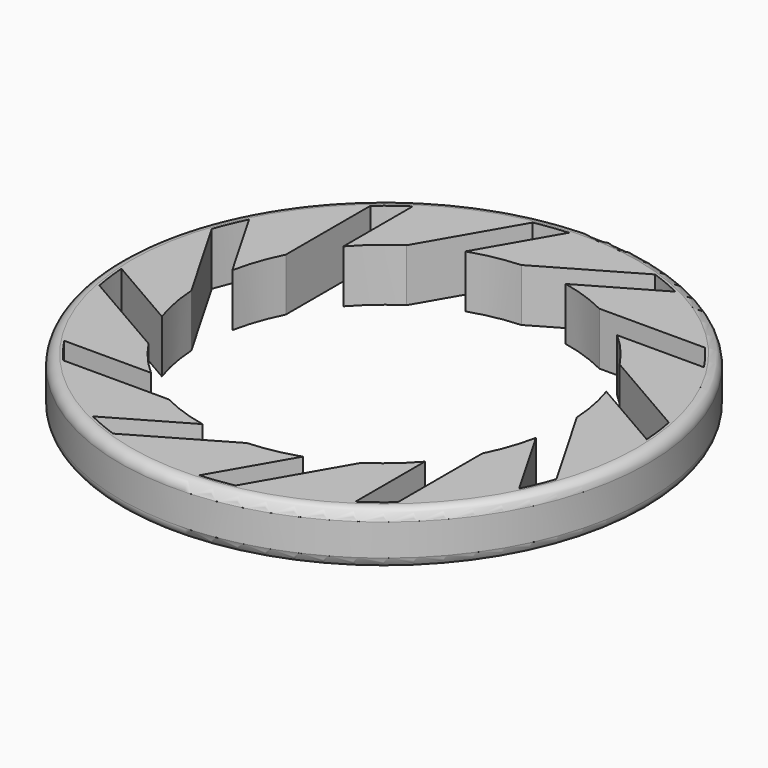
from build123d import *

# Parameters (mm, degrees)
F0_R     = 127
F1_DEPTH = 25.4
F2_R     = 5.08


with BuildPart() as f1:
    # F0 (on Top) → F1 (new body)
    with BuildSketch(Plane.XY):
        Circle(F0_R)
        with BuildLine():
            ThreePointArc((120.420623, 7.436133), (120.592642, 3.719835), (120.65, 0))
            ThreePointArc((120.65, 0), (119.016813, -19.784353), (114.161469, -39.033082))
            ThreePointArc((114.161469, -39.033082), (111.327558, -46.503735), (108.005385, -53.770431))
            ThreePointArc((108.005385, -53.770431), (95.498111, -73.732851), (79.350191, -90.884375))
            ThreePointArc((79.350191, -90.884375), (73.160626, -95.937195), (66.650191, -100.569252))
            ThreePointArc((66.650191, -100.569252), (45.837365, -111.603577), (23.277094, -118.383273))
            ThreePointArc((23.277094, -118.383273), (15.390363, -119.664361), (7.436133, -120.420623))
            ThreePointArc((7.436133, -120.420623), (-16.105466, -119.570216), (-39.033082, -114.161469))
            ThreePointArc((-39.033082, -114.161469), (-46.503735, -111.327558), (-53.770431, -108.005385))
            ThreePointArc((-53.770431, -108.005385), (-73.732851, -95.498111), (-90.884375, -79.350191))
            ThreePointArc((-90.884375, -79.350191), (-95.937195, -73.160626), (-100.569252, -66.650191))
            ThreePointArc((-100.569252, -66.650191), (-111.603577, -45.837365), (-118.383273, -23.277094))
            ThreePointArc((-118.383273, -23.277094), (-119.664361, -15.390363), (-120.420623, -7.436133))
            ThreePointArc((-120.420623, -7.436133), (-119.570216, 16.105466), (-114.161469, 39.033082))
            ThreePointArc((-114.161469, 39.033082), (-111.327558, 46.503735), (-108.005385, 53.770431))
            ThreePointArc((-108.005385, 53.770431), (-95.498111, 73.732851), (-79.350191, 90.884375))
            ThreePointArc((-79.350191, 90.884375), (-73.160626, 95.937195), (-66.650191, 100.569252))
            ThreePointArc((-66.650191, 100.569252), (-45.837365, 111.603577), (-23.277094, 118.383273))
            ThreePointArc((-23.277094, 118.383273), (-15.390363, 119.664361), (-7.436133, 120.420623))
            ThreePointArc((-7.436133, 120.420623), (16.105466, 119.570216), (39.033082, 114.161469))
            ThreePointArc((39.033082, 114.161469), (46.503735, 111.327558), (53.770431, 108.005385))
            ThreePointArc((53.770431, 108.005385), (73.732851, 95.498111), (90.884375, 79.350191))
            ThreePointArc((90.884375, 79.350191), (95.937195, 73.160626), (100.569252, 66.650191))
            ThreePointArc((100.569252, 66.650191), (111.603577, 45.837365), (118.383273, 23.277094))
            ThreePointArc((118.383273, 23.277094), (119.664361, 15.390363), (120.420623, 7.436133))
        make_face(mode=Mode.SUBTRACT)
        with BuildLine():
            Line((-79.350191, 40.084375), (-79.350191, 90.884375))
            ThreePointArc((-79.350191, 90.884375), (-95.498111, 73.732851), (-108.005385, 53.770431))
            Line((-108.005385, 53.770431), (-87.13573, 17.623128))
            ThreePointArc((-87.13573, 17.623128), (-83.997127, 29.115161), (-79.350191, 40.084375))
        make_face()
        with BuildLine():
            Line((-48.677094, 74.389183), (-23.277094, 118.383273))
            ThreePointArc((-23.277094, 118.383273), (-45.837365, 111.603577), (-66.650191, 100.569252))
            Line((-66.650191, 100.569252), (-66.650191, 58.829941))
            ThreePointArc((-66.650191, 58.829941), (-58.186065, 67.213033), (-48.677094, 74.389183))
        make_face()
        with BuildLine():
            Line((-4.961009, 88.761469), (39.033082, 114.161469))
            ThreePointArc((39.033082, 114.161469), (16.105466, 119.570216), (-7.436133, 120.420623))
            Line((-7.436133, 120.420623), (-28.305788, 84.273319))
            ThreePointArc((-28.305788, 84.273319), (-16.784094, 87.301227), (-4.961009, 88.761469))
        make_face()
        with BuildLine():
            Line((40.084375, 79.350191), (90.884375, 79.350191))
            ThreePointArc((90.884375, 79.350191), (73.732851, 95.498111), (53.770431, 108.005385))
            Line((53.770431, 108.005385), (17.623128, 87.13573))
            ThreePointArc((17.623128, 87.13573), (29.115161, 83.997127), (40.084375, 79.350191))
        make_face()
        with BuildLine():
            Line((74.389183, 48.677094), (118.383273, 23.277094))
            ThreePointArc((118.383273, 23.277094), (111.603577, 45.837365), (100.569252, 66.650191))
            Line((100.569252, 66.650191), (58.829941, 66.650191))
            ThreePointArc((58.829941, 66.650191), (67.213033, 58.186065), (74.389183, 48.677094))
        make_face()
        with BuildLine():
            ThreePointArc((114.161469, -39.033082), (119.016813, -19.784353), (120.65, 0))
            ThreePointArc((120.65, 0), (120.592642, 3.719835), (120.420623, 7.436133))
            Line((120.420623, 7.436133), (84.273319, 28.305788))
            ThreePointArc((84.273319, 28.305788), (87.301227, 16.784094), (88.761469, 4.961009))
            Line((88.761469, 4.961009), (114.161469, -39.033082))
        make_face()
        with BuildLine():
            ThreePointArc((79.350191, -90.884375), (95.498111, -73.732851), (108.005385, -53.770431))
            Line((108.005385, -53.770431), (87.13573, -17.623128))
            ThreePointArc((87.13573, -17.623128), (83.997127, -29.115161), (79.350191, -40.084375))
            Line((79.350191, -40.084375), (79.350191, -90.884375))
        make_face()
        with BuildLine():
            ThreePointArc((23.277094, -118.383273), (45.837365, -111.603577), (66.650191, -100.569252))
            Line((66.650191, -100.569252), (66.650191, -58.829941))
            ThreePointArc((66.650191, -58.829941), (58.186065, -67.213033), (48.677094, -74.389183))
            Line((48.677094, -74.389183), (23.277094, -118.383273))
        make_face()
        with BuildLine():
            ThreePointArc((-90.884375, -79.350191), (-73.732851, -95.498111), (-53.770431, -108.005385))
            Line((-53.770431, -108.005385), (-17.623128, -87.13573))
            ThreePointArc((-17.623128, -87.13573), (-29.115161, -83.997127), (-40.084375, -79.350191))
            Line((-40.084375, -79.350191), (-90.884375, -79.350191))
        make_face()
        with BuildLine():
            ThreePointArc((-39.033082, -114.161469), (-16.105466, -119.570216), (7.436133, -120.420623))
            Line((7.436133, -120.420623), (28.305788, -84.273319))
            ThreePointArc((28.305788, -84.273319), (16.784094, -87.301227), (4.961009, -88.761469))
            Line((4.961009, -88.761469), (-39.033082, -114.161469))
        make_face()
        with BuildLine():
            ThreePointArc((-118.383273, -23.277094), (-111.603577, -45.837365), (-100.569252, -66.650191))
            Line((-100.569252, -66.650191), (-58.829941, -66.650191))
            ThreePointArc((-58.829941, -66.650191), (-67.213033, -58.186065), (-74.389183, -48.677094))
            Line((-74.389183, -48.677094), (-118.383273, -23.277094))
        make_face()
        with BuildLine():
            Line((-88.761469, -4.961009), (-114.161469, 39.033082))
            ThreePointArc((-114.161469, 39.033082), (-119.570216, 16.105466), (-120.420623, -7.436133))
            Line((-120.420623, -7.436133), (-84.273319, -28.305788))
            ThreePointArc((-84.273319, -28.305788), (-87.301227, -16.784094), (-88.761469, -4.961009))
        make_face()
    extrude(amount=F1_DEPTH)

    # F2
    f2_edges = [f1.edges().sort_by_distance(p)[0] for p in [
        (-127, 0, 25.4),
        (-127, 0, 0),
    ]]
    fillet(f2_edges, radius=F2_R)


solid = f1.part
